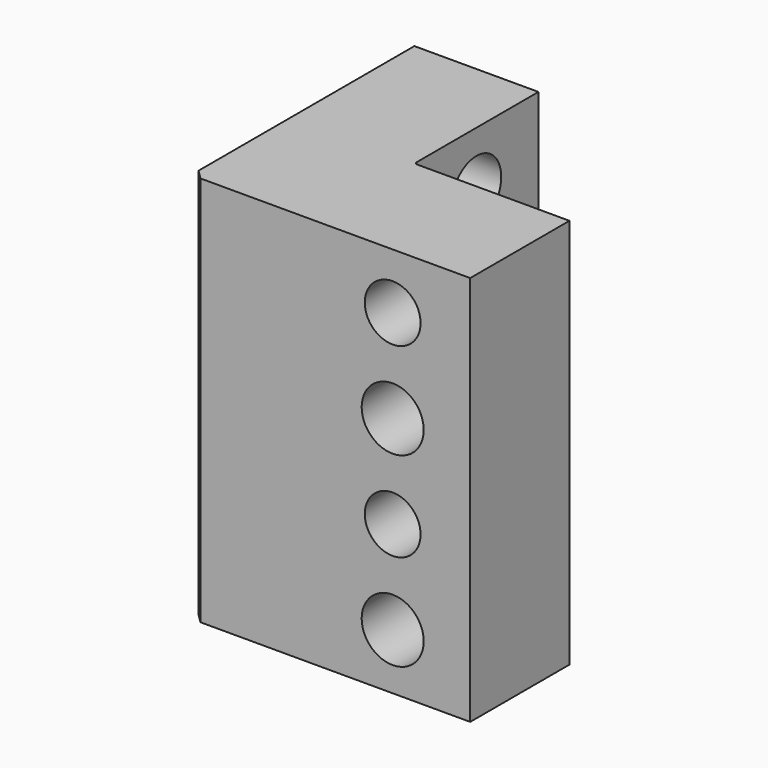
from build123d import *

# Parameters (mm, degrees)
F1_DEPTH = 63
F2_R     = 4.5
F2_R_2   = 5
F3_DEPTH = 25
F4_R     = 4.5
F4_R_2   = 5
F5_DEPTH = 25
F6_R     = 0.5
F7_SIZE  = 1.5


with BuildPart() as f1:
    # F0 (on Top) → F1 (new body)
    with BuildSketch(Plane.XY):
        Polygon((-45, 0), (0, 0), (0, 20), (-25, 20), (-25, 45), (-45, 45), align=None)
    extrude(amount=F1_DEPTH)

    # F2 (on face) → F3 (cut)
    with BuildSketch(Plane.YZ.offset(-25)):
        with Locations((32.5, 39)):
            Circle(F2_R)
        with Locations((32.5, 24)):
            Circle(F2_R_2)
        with Locations((32.5, 9)):
            Circle(F2_R)
        with Locations((32.5, 54)):
            Circle(F2_R_2)
    extrude(amount=-F3_DEPTH, mode=Mode.SUBTRACT)

    # F4 (on face) → F5 (cut)
    with BuildSketch(Plane(origin=(0, 20, 0), x_dir=(-1, 0, 0), z_dir=(0, 1, 0))):
        with Locations((12.5, 54)):
            Circle(F4_R)
        with Locations((12.5, 39)):
            Circle(F4_R_2)
        with Locations((12.5, 24)):
            Circle(F4_R)
        with Locations((12.5, 9)):
            Circle(F4_R_2)
    extrude(amount=-F5_DEPTH, mode=Mode.SUBTRACT)

    # F6
    f6_edges = [f1.edges().sort_by_distance(p)[0] for p in [
        (-25, 20, 31.5),
    ]]
    fillet(f6_edges, radius=F6_R)

    # F7
    f7_edges = [f1.edges().sort_by_distance(p)[0] for p in [
        (-45, 0, 31.5),
    ]]
    chamfer(f7_edges, length=F7_SIZE)


solid = f1.part
